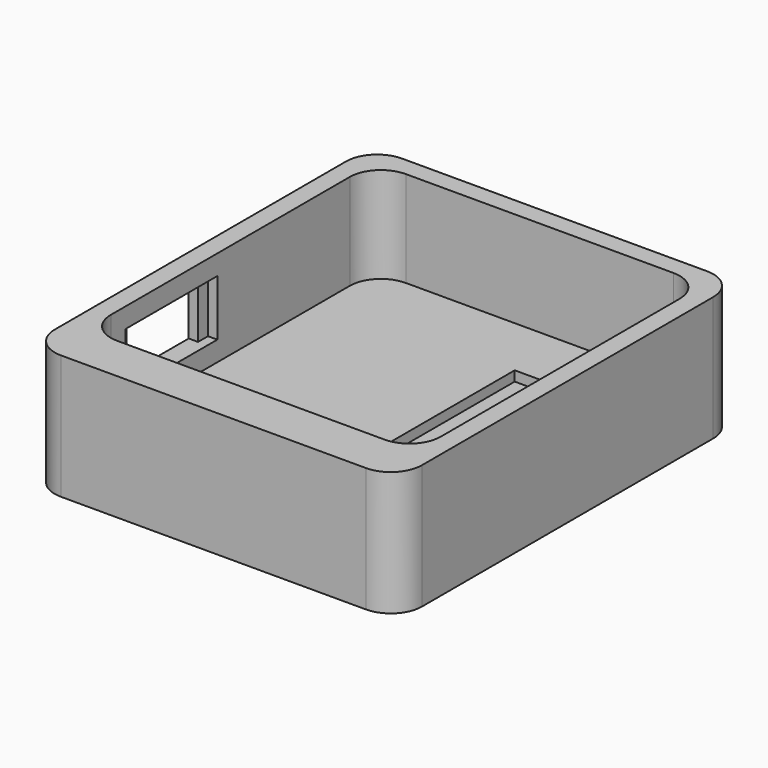
from build123d import *

# Parameters (mm, degrees)
F0_W      = 47.5
F0_H      = 27.5
F0_W_2    = 37.5
F0_H_2    = 17.5
F1_DEPTH  = 4.6
F2_DEPTH  = 1.6
F7_ANGLE  = 90
F8_W      = 17.5
F8_H      = 37.5
F9_DEPTH  = 4.6
F10_DEPTH = 20
F11_W     = 14.4
F11_H     = 9
F12_DEPTH = 3
F13_W     = 2
F13_H     = 9
F14_DEPTH = 1.5


with BuildPart() as f1:
    # F0 (on Top) → F1 (new body)
    with BuildSketch(Plane.XY):
        Rectangle(F0_W, F0_H)
        Rectangle(F0_W_2, F0_H_2, mode=Mode.SUBTRACT)
        Rectangle(F0_W_2, F0_H_2)
    extrude(amount=F1_DEPTH)

    # F0 (on Top) → F2 (cut)
    with BuildSketch(Plane.XY):
        Rectangle(F0_W_2, F0_H_2)
    extrude(amount=F2_DEPTH, mode=Mode.SUBTRACT)


with BuildPart() as f4_1:
    # F4: instance of F1
    add(f1.part.mirror(Plane.XY.offset(2.3)))


with BuildPart() as f4_1_1:
    # F7: moved
    add(f4_1.part.rotate(Axis((0, 0, 16.2241663784), (0, 0, 1)), F7_ANGLE))

    # F8 (on Top) → F9 (join, through all)
    with BuildSketch(Plane.XY):
        with BuildLine():
            Line((11.75, 31.75), (-37.25, 31.75))
            ThreePointArc((-37.25, 31.75), (-40.7855339059, 30.2855339059), (-42.25, 26.75))
            Line((-42.25, 26.75), (-42.25, -31.75))
            ThreePointArc((-42.25, -31.75), (-40.7855339059, -35.2855339059), (-37.25, -36.75))
            Line((-37.25, -36.75), (11.75, -36.75))
            ThreePointArc((11.75, -36.75), (15.2855339059, -35.2855339059), (16.75, -31.75))
            Line((16.75, -31.75), (16.75, 26.75))
            ThreePointArc((16.75, 26.75), (15.2855339059, 30.2855339059), (11.75, 31.75))
        make_face()
        with BuildLine():
            ThreePointArc((-34.25, -29.25), (-37.7855339059, -27.7855339059), (-39.25, -24.25))
            Line((-39.25, -24.25), (-39.25, 23.75))
            ThreePointArc((-39.25, 23.75), (-37.7855339059, 27.2855339059), (-34.25, 28.75))
            Line((-34.25, 28.75), (8.75, 28.75))
            ThreePointArc((8.75, 28.75), (12.2855339059, 27.2855339059), (13.75, 23.75))
            Line((13.75, 23.75), (13.75, -24.25))
            ThreePointArc((13.75, -24.25), (12.2855339059, -27.7855339059), (8.75, -29.25))
            Line((8.75, -29.25), (-34.25, -29.25))
        make_face(mode=Mode.SUBTRACT)
        with BuildLine():
            Line((-39.25, 23.75), (-39.25, -24.25))
            ThreePointArc((-39.25, -24.25), (-37.7855339059, -27.7855339059), (-34.25, -29.25))
            Line((-34.25, -29.25), (8.75, -29.25))
            ThreePointArc((8.75, -29.25), (12.2855339059, -27.7855339059), (13.75, -24.25))
            Line((13.75, -24.25), (13.75, 23.75))
            ThreePointArc((13.75, 23.75), (12.2855339059, 27.2855339059), (8.75, 28.75))
            Line((8.75, 28.75), (-34.25, 28.75))
            ThreePointArc((-34.25, 28.75), (-37.7855339059, 27.2855339059), (-39.25, 23.75))
        make_face()
        Rectangle(F8_W, F8_H, mode=Mode.SUBTRACT)
    extrude(amount=F9_DEPTH)

    # F8 (on Top) → F10 (join)
    with BuildSketch(Plane.XY):
        with BuildLine():
            Line((11.75, 31.75), (-37.25, 31.75))
            ThreePointArc((-37.25, 31.75), (-40.7855339059, 30.2855339059), (-42.25, 26.75))
            Line((-42.25, 26.75), (-42.25, -31.75))
            ThreePointArc((-42.25, -31.75), (-40.7855339059, -35.2855339059), (-37.25, -36.75))
            Line((-37.25, -36.75), (11.75, -36.75))
            ThreePointArc((11.75, -36.75), (15.2855339059, -35.2855339059), (16.75, -31.75))
            Line((16.75, -31.75), (16.75, 26.75))
            ThreePointArc((16.75, 26.75), (15.2855339059, 30.2855339059), (11.75, 31.75))
        make_face()
        with BuildLine():
            ThreePointArc((-34.25, -29.25), (-37.7855339059, -27.7855339059), (-39.25, -24.25))
            Line((-39.25, -24.25), (-39.25, 23.75))
            ThreePointArc((-39.25, 23.75), (-37.7855339059, 27.2855339059), (-34.25, 28.75))
            Line((-34.25, 28.75), (8.75, 28.75))
            ThreePointArc((8.75, 28.75), (12.2855339059, 27.2855339059), (13.75, 23.75))
            Line((13.75, 23.75), (13.75, -24.25))
            ThreePointArc((13.75, -24.25), (12.2855339059, -27.7855339059), (8.75, -29.25))
            Line((8.75, -29.25), (-34.25, -29.25))
        make_face(mode=Mode.SUBTRACT)
    extrude(amount=F10_DEPTH)

    # F11 (on face) → F12 (cut, through all)
    with BuildSketch(Plane(origin=(-42.25, 0, 0), x_dir=(0, -1, 0), z_dir=(-1, 0, 0))):
        with Locations((12.05, 12.3)):
            Rectangle(F11_W, F11_H)
    extrude(amount=-F12_DEPTH, mode=Mode.SUBTRACT)

    # F13 (on face) → F14 (cut)
    with BuildSketch(Plane.YZ.offset(-39.25)):
        with Locations((-20.25, 12.3)):
            Rectangle(F13_W, F13_H)
        with Locations((-3.85, 12.3)):
            Rectangle(F13_W, F13_H)
    extrude(amount=-F14_DEPTH, mode=Mode.SUBTRACT)


solid = f4_1_1.part
